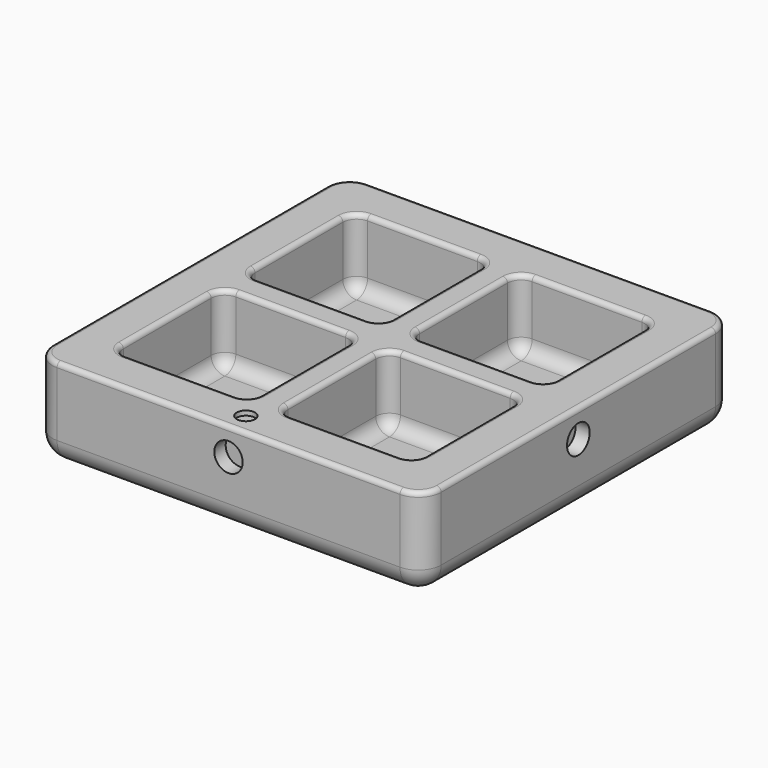
from build123d import *

# Parameters (mm, degrees)
F0_W      = 85
F0_H      = 85
F0_R      = 2
F1_DEPTH  = 20
F2_DEPTH  = 15
F3_R      = 5
F4_R      = 3
F5_R      = 1
F6_R      = 3.1
F7_DEPTH  = 3.1
F8_R      = 3.1
F9_DEPTH  = 3.1
F10_R     = 3.1
F11_DEPTH = 3.1
F12_R     = 3.1
F13_DEPTH = 3.1
F14_DEPTH = 1
F15_ANGLE = 180


with BuildPart() as f1:
    # F0 (on Top) → F1 (new body)
    with BuildSketch(Plane.XY):
        Rectangle(F0_W, F0_H)
        with BuildLine():
            ThreePointArc((-33, -6), (-32.1213203436, -3.8786796564), (-30, -3))
            Line((-30, -3), (-6, -3))
            ThreePointArc((-6, -3), (-3.8786796564, -3.8786796564), (-3, -6))
            Line((-3, -6), (-3, -30))
            ThreePointArc((-3, -30), (-3.8786796564, -32.1213203436), (-6, -33))
            Line((-6, -33), (-30, -33))
            ThreePointArc((-30, -33), (-32.1213203436, -32.1213203436), (-33, -30))
            Line((-33, -30), (-33, -6))
        make_face(mode=Mode.SUBTRACT)
        with Locations((0, -37.75)):
            Circle(F0_R, mode=Mode.SUBTRACT)
        with BuildLine():
            Line((6, -3), (30, -3))
            ThreePointArc((30, -3), (32.1213203436, -3.8786796564), (33, -6))
            Line((33, -6), (33, -30))
            ThreePointArc((33, -30), (32.1213203436, -32.1213203436), (30, -33))
            Line((30, -33), (6, -33))
            ThreePointArc((6, -33), (3.8786796564, -32.1213203436), (3, -30))
            Line((3, -30), (3, -6))
            ThreePointArc((3, -6), (3.8786796564, -3.8786796564), (6, -3))
        make_face(mode=Mode.SUBTRACT)
        with BuildLine():
            ThreePointArc((-33, 30), (-32.1213203436, 32.1213203436), (-30, 33))
            Line((-30, 33), (-6, 33))
            ThreePointArc((-6, 33), (-3.8786796564, 32.1213203436), (-3, 30))
            Line((-3, 30), (-3, 6))
            ThreePointArc((-3, 6), (-3.8786796564, 3.8786796564), (-6, 3))
            Line((-6, 3), (-30, 3))
            ThreePointArc((-30, 3), (-32.1213203436, 3.8786796564), (-33, 6))
            Line((-33, 6), (-33, 30))
        make_face(mode=Mode.SUBTRACT)
        with BuildLine():
            ThreePointArc((30, 33), (32.1213203436, 32.1213203436), (33, 30))
            Line((33, 30), (33, 6))
            ThreePointArc((33, 6), (32.1213203436, 3.8786796564), (30, 3))
            Line((30, 3), (6, 3))
            ThreePointArc((6, 3), (3.8786796564, 3.8786796564), (3, 6))
            Line((3, 6), (3, 30))
            ThreePointArc((3, 30), (3.8786796564, 32.1213203436), (6, 33))
            Line((6, 33), (30, 33))
        make_face(mode=Mode.SUBTRACT)
        with BuildLine():
            Line((-6, 33), (-30, 33))
            ThreePointArc((-30, 33), (-32.1213203436, 32.1213203436), (-33, 30))
            Line((-33, 30), (-33, 6))
            ThreePointArc((-33, 6), (-32.1213203436, 3.8786796564), (-30, 3))
            Line((-30, 3), (-6, 3))
            ThreePointArc((-6, 3), (-3.8786796564, 3.8786796564), (-3, 6))
            Line((-3, 6), (-3, 30))
            ThreePointArc((-3, 30), (-3.8786796564, 32.1213203436), (-6, 33))
        make_face()
        with BuildLine():
            Line((33, 6), (33, 30))
            ThreePointArc((33, 30), (32.1213203436, 32.1213203436), (30, 33))
            Line((30, 33), (6, 33))
            ThreePointArc((6, 33), (3.8786796564, 32.1213203436), (3, 30))
            Line((3, 30), (3, 6))
            ThreePointArc((3, 6), (3.8786796564, 3.8786796564), (6, 3))
            Line((6, 3), (30, 3))
            ThreePointArc((30, 3), (32.1213203436, 3.8786796564), (33, 6))
        make_face()
        with BuildLine():
            ThreePointArc((33, -6), (32.1213203436, -3.8786796564), (30, -3))
            Line((30, -3), (6, -3))
            ThreePointArc((6, -3), (3.8786796564, -3.8786796564), (3, -6))
            Line((3, -6), (3, -30))
            ThreePointArc((3, -30), (3.8786796564, -32.1213203436), (6, -33))
            Line((6, -33), (30, -33))
            ThreePointArc((30, -33), (32.1213203436, -32.1213203436), (33, -30))
            Line((33, -30), (33, -6))
        make_face()
        with BuildLine():
            Line((-6, -3), (-30, -3))
            ThreePointArc((-30, -3), (-32.1213203436, -3.8786796564), (-33, -6))
            Line((-33, -6), (-33, -30))
            ThreePointArc((-33, -30), (-32.1213203436, -32.1213203436), (-30, -33))
            Line((-30, -33), (-6, -33))
            ThreePointArc((-6, -33), (-3.8786796564, -32.1213203436), (-3, -30))
            Line((-3, -30), (-3, -6))
            ThreePointArc((-3, -6), (-3.8786796564, -3.8786796564), (-6, -3))
        make_face()
        with Locations((0, -37.75)):
            Circle(F0_R)
    extrude(amount=F1_DEPTH)

    # F0 (on Top) → F2 (cut)
    with BuildSketch(Plane.XY):
        with BuildLine():
            Line((-6, 33), (-30, 33))
            ThreePointArc((-30, 33), (-32.1213203436, 32.1213203436), (-33, 30))
            Line((-33, 30), (-33, 6))
            ThreePointArc((-33, 6), (-32.1213203436, 3.8786796564), (-30, 3))
            Line((-30, 3), (-6, 3))
            ThreePointArc((-6, 3), (-3.8786796564, 3.8786796564), (-3, 6))
            Line((-3, 6), (-3, 30))
            ThreePointArc((-3, 30), (-3.8786796564, 32.1213203436), (-6, 33))
        make_face()
        with BuildLine():
            Line((-6, -3), (-30, -3))
            ThreePointArc((-30, -3), (-32.1213203436, -3.8786796564), (-33, -6))
            Line((-33, -6), (-33, -30))
            ThreePointArc((-33, -30), (-32.1213203436, -32.1213203436), (-30, -33))
            Line((-30, -33), (-6, -33))
            ThreePointArc((-6, -33), (-3.8786796564, -32.1213203436), (-3, -30))
            Line((-3, -30), (-3, -6))
            ThreePointArc((-3, -6), (-3.8786796564, -3.8786796564), (-6, -3))
        make_face()
        with BuildLine():
            ThreePointArc((33, -6), (32.1213203436, -3.8786796564), (30, -3))
            Line((30, -3), (6, -3))
            ThreePointArc((6, -3), (3.8786796564, -3.8786796564), (3, -6))
            Line((3, -6), (3, -30))
            ThreePointArc((3, -30), (3.8786796564, -32.1213203436), (6, -33))
            Line((6, -33), (30, -33))
            ThreePointArc((30, -33), (32.1213203436, -32.1213203436), (33, -30))
            Line((33, -30), (33, -6))
        make_face()
        with BuildLine():
            Line((33, 6), (33, 30))
            ThreePointArc((33, 30), (32.1213203436, 32.1213203436), (30, 33))
            Line((30, 33), (6, 33))
            ThreePointArc((6, 33), (3.8786796564, 32.1213203436), (3, 30))
            Line((3, 30), (3, 6))
            ThreePointArc((3, 6), (3.8786796564, 3.8786796564), (6, 3))
            Line((6, 3), (30, 3))
            ThreePointArc((30, 3), (32.1213203436, 3.8786796564), (33, 6))
        make_face()
    extrude(amount=F2_DEPTH, mode=Mode.SUBTRACT)

    # F3
    f3_edges = [f1.edges().sort_by_distance(p)[0] for p in [
        (0, 42.5, 20),
        (-42.5, 0, 20),
        (0, -42.5, 20),
        (42.5, 0, 20),
        (42.5, 42.5, 10),
        (-42.5, 42.5, 10),
        (-42.5, -42.5, 10),
        (42.5, -42.5, 10),
    ]]
    fillet(f3_edges, radius=F3_R)

    # F4
    f4_edges = [f1.edges().sort_by_distance(p)[0] for p in [
        (-3.87868, 32.12132, 15),
        (-18, 33, 15),
        (-32.12132, 32.12132, 15),
        (-33, 18, 15),
        (-32.12132, 3.87868, 15),
        (-18, 3, 15),
        (-3.87868, 3.87868, 15),
        (-3, 18, 15),
        (-3, -18, 15),
        (-3.87868, -3.87868, 15),
        (-18, -3, 15),
        (-32.12132, -3.87868, 15),
        (-33, -18, 15),
        (-32.12132, -32.12132, 15),
        (-18, -33, 15),
        (-3.87868, -32.12132, 15),
        (32.12132, -3.87868, 15),
        (18, -3, 15),
        (3.87868, -3.87868, 15),
        (3, -18, 15),
        (3.87868, -32.12132, 15),
        (18, -33, 15),
        (32.12132, -32.12132, 15),
        (33, -18, 15),
        (32.12132, 3.87868, 15),
        (33, 18, 15),
        (32.12132, 32.12132, 15),
        (18, 33, 15),
        (3.87868, 32.12132, 15),
        (3, 18, 15),
        (3.87868, 3.87868, 15),
        (18, 3, 15),
    ]]
    fillet(f4_edges, radius=F4_R)

    # F5
    f5_edges = [f1.edges().sort_by_distance(p)[0] for p in [
        (0, 42.5, 0),
        (41.035534, 41.035534, 0),
        (-41.035534, 41.035534, 0),
        (42.5, 0, 0),
        (-42.5, 0, 0),
        (41.035534, -41.035534, 0),
        (-41.035534, -41.035534, 0),
        (0, -42.5, 0),
        (-3, -18, 0),
        (-3.87868, -3.87868, 0),
        (-18, -3, 0),
        (-32.12132, -3.87868, 0),
        (-33, -18, 0),
        (-32.12132, -32.12132, 0),
        (-18, -33, 0),
        (-3.87868, -32.12132, 0),
        (32.12132, -3.87868, 0),
        (18, -3, 0),
        (3.87868, -3.87868, 0),
        (3, -18, 0),
        (3.87868, -32.12132, 0),
        (18, -33, 0),
        (32.12132, -32.12132, 0),
        (33, -18, 0),
        (-3.87868, 32.12132, 0),
        (-18, 33, 0),
        (-32.12132, 32.12132, 0),
        (-33, 18, 0),
        (-32.12132, 3.87868, 0),
        (-18, 3, 0),
        (-3.87868, 3.87868, 0),
        (-3, 18, 0),
        (32.12132, 3.87868, 0),
        (33, 18, 0),
        (32.12132, 32.12132, 0),
        (18, 33, 0),
        (3.87868, 32.12132, 0),
        (3, 18, 0),
        (3.87868, 3.87868, 0),
        (18, 3, 0),
    ]]
    fillet(f5_edges, radius=F5_R)

    # F6 (on face) → F7 (cut)
    with BuildSketch(Plane.XZ.offset(42.5)):
        with Locations((0, 6)):
            Circle(F6_R)
    extrude(amount=-F7_DEPTH, mode=Mode.SUBTRACT)

    # F8 (on face) → F9 (cut)
    with BuildSketch(Plane(origin=(0, 42.5, 0), x_dir=(-1, 0, 0), z_dir=(0, 1, 0))):
        with Locations((0, 6)):
            Circle(F8_R)
    extrude(amount=-F9_DEPTH, mode=Mode.SUBTRACT)

    # F10 (on face) → F11 (cut)
    with BuildSketch(Plane(origin=(-42.5, 0, 0), x_dir=(0, -1, 0), z_dir=(-1, 0, 0))):
        with Locations((0, 6)):
            Circle(F10_R)
    extrude(amount=-F11_DEPTH, mode=Mode.SUBTRACT)

    # F12 (on face) → F13 (cut)
    with BuildSketch(Plane.YZ.offset(42.5)):
        with Locations((0, 6)):
            Circle(F12_R)
    extrude(amount=-F13_DEPTH, mode=Mode.SUBTRACT)

    # F0 (on Top) → F14 (cut)
    with BuildSketch(Plane.XY):
        with Locations((0, -37.75)):
            Circle(F0_R)
    extrude(amount=F14_DEPTH, mode=Mode.SUBTRACT)


with BuildPart() as f1_1:
    # F15: moved
    add(f1.part.rotate(Axis((0, 0, 0), (0, 1, 0)), F15_ANGLE))


solid = f1_1.part
